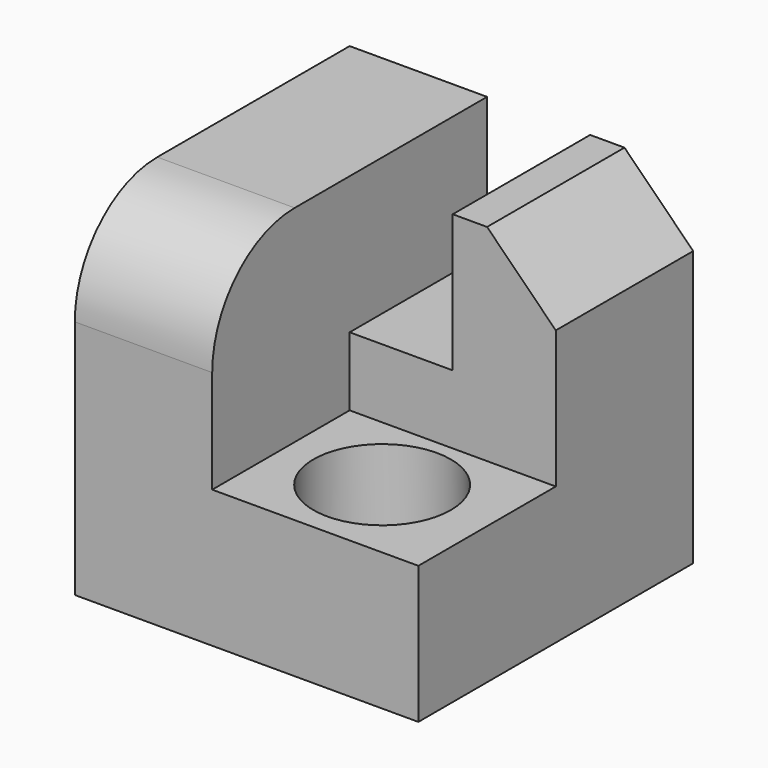
from build123d import *

# Parameters (mm, degrees)
F0_W     = 127
F0_H     = 127
F1_DEPTH = 127
F2_W     = 76.2
F2_H     = 63.5
F3_DEPTH = 76.2
F4_R     = 25.4
F5_DEPTH = 76.2
F6_W     = 38.1
F6_H     = 63.5
F7_DEPTH = 50.8
F8_R     = 38.1
F9_SIZE  = 25.4


with BuildPart() as f1:
    # F0 (on Front) → F1 (new body)
    with BuildSketch(Plane.XZ):
        with Locations((0.941295, 0.866529)):
            Rectangle(F0_W, F0_H)
    extrude(amount=F1_DEPTH)

    # F2 (on face) → F3 (cut)
    with BuildSketch(Plane.XY.offset(64.366529)):
        with Locations((26.341295, -95.25)):
            Rectangle(F2_W, F2_H)
    extrude(amount=-F3_DEPTH, mode=Mode.SUBTRACT)

    # F4 (on face) → F5 (cut)
    with BuildSketch(Plane.XY.offset(-11.833471)):
        with Locations((24.607655, -93.949772)):
            Circle(F4_R)
    extrude(amount=-F5_DEPTH, mode=Mode.SUBTRACT)

    # F6 (on face) → F7 (cut)
    with BuildSketch(Plane.XY.offset(64.366529)):
        with Locations((7.291295, -31.75)):
            Rectangle(F6_W, F6_H)
    extrude(amount=-F7_DEPTH, mode=Mode.SUBTRACT)

    # F8
    f8_edges = [f1.edges().sort_by_distance(p)[0] for p in [
        (-37.158705, -127, 64.366529),
    ]]
    fillet(f8_edges, radius=F8_R)

    # F9
    f9_edges = [f1.edges().sort_by_distance(p)[0] for p in [
        (64.441295, -31.75, 64.366529),
    ]]
    chamfer(f9_edges, length=F9_SIZE)


solid = f1.part
